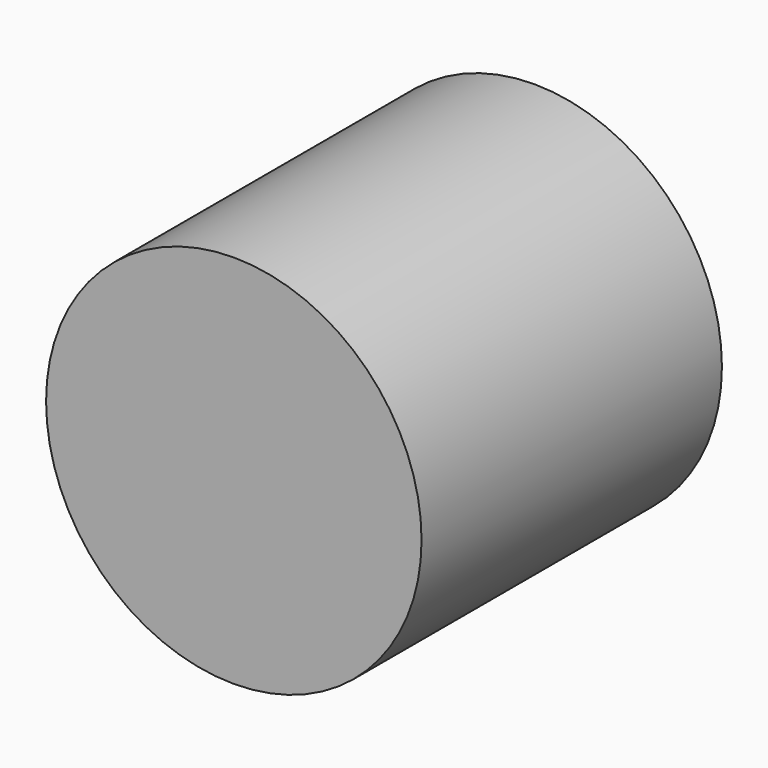
from build123d import *

# Parameters (mm, degrees)
F0_R     = 25.4
F2_DEPTH = 25.4
F1_R     = 25.4


with BuildPart() as f2:
    # F0 (on Front) → F2 (new body, symmetric)
    with BuildSketch(Plane.XZ):
        Circle(F0_R)
    extrude(amount=F2_DEPTH, both=True)


with BuildPart() as f2b:
    # F1 (on face) → F2, piece 2 (new body, symmetric)
    with BuildSketch(Plane.XZ):
        Circle(F1_R)
    extrude(amount=F2_DEPTH, both=True)


solid = Compound([f2.part, f2b.part])
